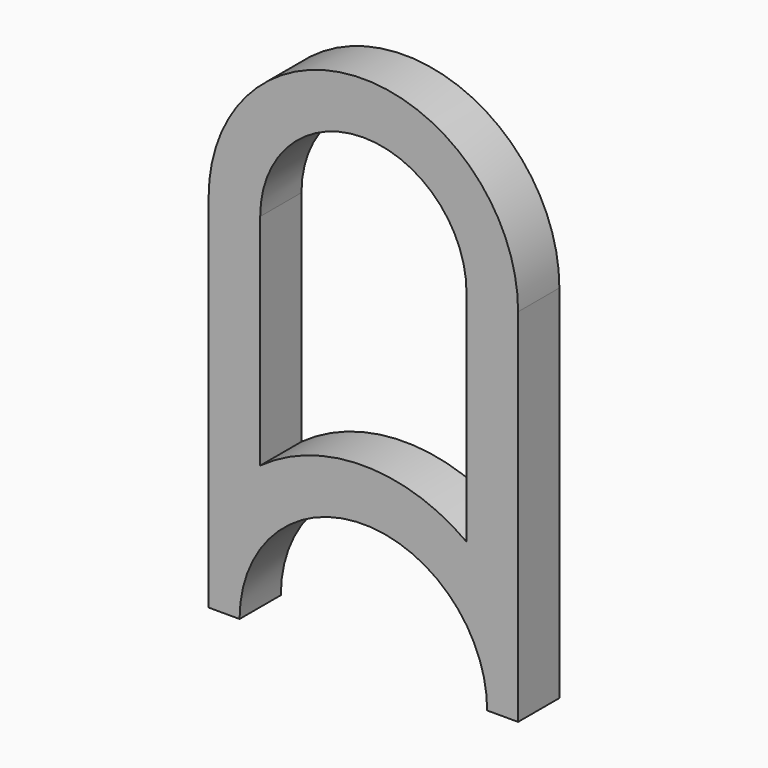
from build123d import *

# Parameters (mm, degrees)
F1_DEPTH = 100


with BuildPart() as f1:
    # F0 (on Front) → F1 (new body)
    with BuildSketch(Plane.XZ):
        with BuildLine():
            Line((-60, 117.025204), (-60, -42.974796))
            Line((-60, -42.974796), (0, -42.974796))
            ThreePointArc((0, -42.974796), (240, 197.025204), (480, -42.974796))
            Line((480, -42.974796), (540, -42.974796))
            Line((540, -42.974796), (540, 117.025204))
            Line((540, 117.025204), (540, 657.025204))
            ThreePointArc((540, 657.025204), (240, 957.025204), (-60, 657.025204))
            Line((-60, 657.025204), (-60, 117.025204))
        make_face()
        with BuildLine():
            Line((440, 657.025204), (440, 231.979746))
            ThreePointArc((440, 231.979746), (240, 297.025204), (40, 231.979746))
            Line((40, 231.979746), (40, 657.025204))
            ThreePointArc((40, 657.025204), (240, 857.025204), (440, 657.025204))
        make_face(mode=Mode.SUBTRACT)
    extrude(amount=F1_DEPTH)


solid = f1.part
